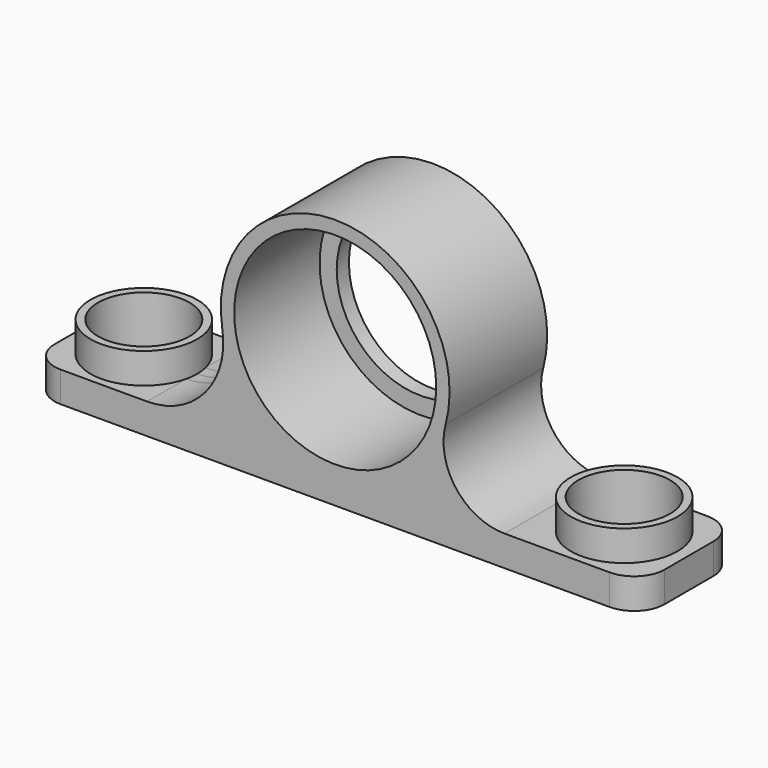
from build123d import *

# Parameters (mm, degrees)
F0_W           = 40
F0_H           = 8
F2_DEPTH       = 1
F1_R           = 3.5
F3_DEPTH       = 3
F4_R           = 7.5
F5_DEPTH       = 4
F6_R           = 4
F7_R           = 5
F9_D           = 11
F9_CBORE_D     = 13.25
F9_CBORE_DEPTH = 7
F12_D          = 6
F13_R          = 2


with BuildPart() as f2:
    # F0 (on Top) → F2 (new body, symmetric)
    with BuildSketch(Plane.XY):
        Rectangle(F0_W, F0_H)
    extrude(amount=F2_DEPTH, both=True)

    # F1 (on face) → F3 (join)
    with BuildSketch(Plane.XY):
        with Locations((-15.75, 0)):
            Circle(F1_R)
        with Locations((15.75, 0)):
            Circle(F1_R)
    extrude(amount=F3_DEPTH)

    # F4 (on Front) → F5 (join, symmetric)
    with BuildSketch(Plane.XZ):
        with Locations((0, 8)):
            Circle(F4_R)
    extrude(amount=F5_DEPTH, both=True)

    # F6
    f6_edges = [f2.edges().sort_by_distance(p)[0] for p in [
        (2.692582, 0, 1),
    ]]
    fillet(f6_edges, radius=F6_R)

    # F7
    f7_edges = [f2.edges().sort_by_distance(p)[0] for p in [
        (-2.692582, 0, 1),
    ]]
    fillet(f7_edges, radius=F7_R)

    # F9 (through all)
    with Locations(Plane.XZ.offset(4)):
        with Locations((0, 8)):
            CounterBoreHole(F9_D / 2, F9_CBORE_D / 2, F9_CBORE_DEPTH)

    # F12 (through all)
    with Locations(Plane.XY.offset(3)):
        with Locations((15.75, 0), (-15.75, 0)):
            Hole(F12_D / 2)

    # F13
    f13_edges = [f2.edges().sort_by_distance(p)[0] for p in [
        (-20, -4, 0),
        (-20, 4, 0),
        (20, 4, 0),
        (20, -4, 0),
    ]]
    fillet(f13_edges, radius=F13_R)


solid = f2.part
